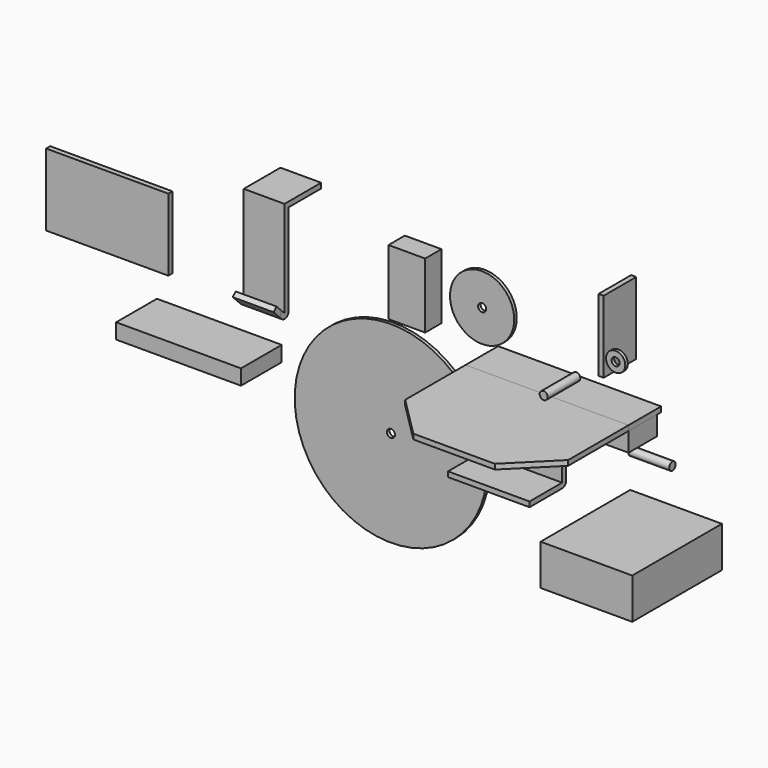
from build123d import *

# Parameters (mm, degrees)
F0_W      = 22.225
F0_H      = 11.938
F1_DEPTH  = 22.225
F2_DEPTH  = 22.225
F3_W      = 22.86
F3_H      = 40.64
F4_DEPTH  = 12.7
F5_W      = 57.15
F5_H      = 25.4
F6_DEPTH  = 69.85
F7_DEPTH  = 25.4
F8_DEPTH  = 72.39
F9_R      = 20
F10_DEPTH = 2
F11_R     = 6
F12_DEPTH = 2
F14_DEPTH = 25.4
F15_W     = 50.8
F15_H     = 25.4
F16_DEPTH = 3.175
F17_W     = 50.8
F17_H     = 3.175
F20_DEPTH = 50.8
F22_DEPTH = 50.8
F23_R     = 60
F24_DEPTH = 2
F25_R     = 2.5
F26_DEPTH = 25.4
F27_R     = 2.5
F28_DEPTH = 25.4
F29_R     = 2.5
F30_DEPTH = 25.4
F31_R     = 2.5
F32_DEPTH = 25.4
F33_W     = 77.7875
F33_H     = 9.525
F34_DEPTH = 31.75
F35_W     = 25.4
F35_H     = 60
F36_DEPTH = 3.175
F37_W     = 25.4
F37_H     = 3.175
F40_DEPTH = 25.4
F41_DEPTH = 25.4
F42_W     = 25.4
F42_H     = 3.175
F43_DEPTH = 28.575
F44_W     = 76.2
F44_H     = 45
F45_DEPTH = 3.175
F46_W     = 25.4
F46_H     = 45
F47_DEPTH = 3.175
F48_R     = 2.5019
F49_DEPTH = 25.4


with BuildPart() as f1:
    # F0 (on Front) → F1 (new body)
    with BuildSketch(Plane.XZ):
        with Locations((-53.469562, -2.8866)):
            Rectangle(F0_W, F0_H)
    extrude(amount=-F1_DEPTH)


with BuildPart() as f2:
    # F0 (on Front) → F2 (new body)
    with BuildSketch(Plane.XZ):
        with Locations((25.905438, -2.8866)):
            Rectangle(F0_W, F0_H)
    extrude(amount=-F2_DEPTH)


with BuildPart() as f4:
    # F3 (on Front) → F4 (new body)
    with BuildSketch(Plane.XZ):
        with Locations((-101.150385, 36.158367)):
            Rectangle(F3_W, F3_H)
    extrude(amount=-F4_DEPTH)


with BuildPart() as f6:
    # F5 (on Front) → F6 (new body)
    with BuildSketch(Plane.XZ):
        with Locations((66.642915, -41.606452)):
            Rectangle(F5_W, F5_H)
    extrude(amount=F6_DEPTH)


with BuildPart() as f7:
    # F0 (on Front) → F7 (new body)
    with BuildSketch(Plane.XZ):
        Polygon((-64.582062, 6.2574), (-64.582062, 3.0824), (-42.357062, 3.0824), (14.792938, 3.0824), (37.017938, 3.0824), (37.017938, 6.2574), align=None)
    extrude(amount=-F7_DEPTH)


with BuildPart() as f8:
    # F0 (on Front) → F8 (new body)
    with BuildSketch(Plane.XZ):
        Polygon((-64.582062, 6.2574), (-64.582062, 3.0824), (-42.357062, 3.0824), (14.792938, 3.0824), (37.017938, 3.0824), (37.017938, 6.2574), align=None)
    extrude(amount=F8_DEPTH)

    # F13 (on face) → F14 (cut)
    with BuildSketch(Plane.XY.offset(6.2574)):
        Polygon((-64.582062, -72.39), (-39.182062, -72.39), (-64.582062, -46.99), align=None)
        Polygon((37.017938, -72.39), (37.017938, -46.99), (11.617938, -72.39), align=None)
    extrude(amount=-F14_DEPTH, mode=Mode.SUBTRACT)


with BuildPart() as f10:
    # F9 (on Front) → F10 (new body)
    with BuildSketch(Plane.XZ):
        with Locations((-52.642774, 42.422887)):
            Circle(F9_R)
    extrude(amount=F10_DEPTH)

    # F27 (on face) → F28 (cut)
    with BuildSketch(Plane.XZ.offset(2)):
        with Locations((-52.642774, 42.422887)):
            Circle(F27_R)
    extrude(amount=-F28_DEPTH, mode=Mode.SUBTRACT)


with BuildPart() as f12:
    # F11 (on Front) → F12 (new body)
    with BuildSketch(Plane.XZ):
        with Locations((30.587189, 39.813034)):
            Circle(F11_R)
    extrude(amount=F12_DEPTH)

    # F29 (on face) → F30 (cut)
    with BuildSketch(Plane.XZ.offset(2)):
        with Locations((30.587189, 39.813034)):
            Circle(F29_R)
    extrude(amount=-F30_DEPTH, mode=Mode.SUBTRACT)


with BuildPart() as f16:
    # F15 (on face) → F16 (new body)
    with BuildSketch(Plane.XZ.offset(2)):
        with Locations((-25.614209, -22.562116)):
            Rectangle(F15_W, F15_H)
    extrude(amount=F16_DEPTH)

    # F17 (on face) → F18 (revolve)
    with BuildSketch(Plane.XZ.offset(5.175)):
        with Locations((-25.614209, -33.674616)):
            Rectangle(F17_W, F17_H)
    revolve(axis=Axis((-25.614209, -5.175, -35.262116), (1, 0, 0)))

    # F19 (on face) → F20 (cut)
    with BuildSketch(Plane(origin=(-51.014209, 0, 0), x_dir=(0, -1, 0), z_dir=(-1, 0, 0))):
        with BuildLine():
            ThreePointArc((8.35, -35.262116), (7.420064, -33.017052), (5.175, -32.087116))
            Line((5.175, -32.087116), (5.175, -35.262116))
            Line((5.175, -35.262116), (8.35, -35.262116))
        make_face()
    extrude(amount=-F20_DEPTH, mode=Mode.SUBTRACT)

    # F21 (on face) → F22 (join)
    with BuildSketch(Plane(origin=(-51.014209, 0, 0), x_dir=(0, -1, 0), z_dir=(-1, 0, 0))):
        with BuildLine():
            ThreePointArc((8.35, -35.262116), (7.420064, -37.507181), (5.175, -38.437116))
            Line((5.175, -38.437116), (30.575, -38.437116))
            Line((30.575, -38.437116), (30.575, -35.262116))
            Line((30.575, -35.262116), (8.35, -35.262116))
        make_face()
    extrude(amount=-F22_DEPTH)


with BuildPart() as f24:
    # F23 (on Front) → F24 (new body)
    with BuildSketch(Plane.XZ):
        with Locations((-109.444685, -45.056824)):
            Circle(F23_R)
    extrude(amount=F24_DEPTH)

    # F25 (on face) → F26 (cut)
    with BuildSketch(Plane.XZ.offset(2)):
        with Locations((-109.444685, -45.056824)):
            Circle(F25_R)
    extrude(amount=-F26_DEPTH, mode=Mode.SUBTRACT)


with BuildPart() as f32:
    # F31 (on Front) → F32 (new body)
    with BuildSketch(Plane.XZ):
        with Locations((4.458145, 22.271456)):
            Circle(F31_R)
    extrude(amount=F32_DEPTH)


with BuildPart() as f34:
    # F33 (on Front) → F34 (new body)
    with BuildSketch(Plane.XZ):
        with Locations((-218.014501, -24.70176)):
            Rectangle(F33_W, F33_H)
    extrude(amount=F34_DEPTH)


with BuildPart() as f36:
    # F35 (on Front) → F36 (new body)
    with BuildSketch(Plane.XZ):
        with Locations((-187.555594, 30.06612)):
            Rectangle(F35_W, F35_H)
    extrude(amount=F36_DEPTH)

    # F37 (on face) → F38 (revolve)
    with BuildSketch(Plane.XZ.offset(3.175)):
        with Locations((-187.555594, 1.65362)):
            Rectangle(F37_W, F37_H)
    revolve(axis=Axis((-187.555594, -3.175, 0.06612), (1, 0, 0)))

    # F39 (on face) → F41 (cut)
    with BuildSketch(Plane(origin=(-200.255594, 0, 0), x_dir=(0, -1, 0), z_dir=(-1, 0, 0))):
        with BuildLine():
            ThreePointArc((5.420064, 2.311184), (4.39002, 2.999437), (3.175, 3.24112))
            Line((3.175, 3.24112), (3.175, 0.06612))
            Line((3.175, 0.06612), (5.420064, 2.311184))
        make_face()
    extrude(amount=-F41_DEPTH, mode=Mode.SUBTRACT)

    # F42 (on face) → F43 (join)
    with BuildSketch(Plane.XZ.offset(3.175)):
        with Locations((-187.555594, 58.47862)):
            Rectangle(F42_W, F42_H)
    extrude(amount=-F43_DEPTH)


with BuildPart() as f40:
    # F39 (on face) → F40 (new body)
    with BuildSketch(Plane(origin=(-200.255594, 0, 0), x_dir=(0, -1, 0), z_dir=(-1, 0, 0))):
        with BuildLine():
            Line((9.456451, 6.347571), (5.420064, 2.311184))
            ThreePointArc((5.420064, 2.311184), (6.35, 0.06612), (5.420064, -2.178944))
            Line((5.420064, -2.178944), (11.701515, 4.102507))
            Line((11.701515, 4.102507), (9.456451, 6.347571))
        make_face()
    extrude(amount=-F40_DEPTH)


with BuildPart() as f45:
    # F44 (on Front) → F45 (new body)
    with BuildSketch(Plane.XZ):
        with Locations((-285.338883, 19.636434)):
            Rectangle(F44_W, F44_H)
    extrude(amount=F45_DEPTH)


with BuildPart() as f47:
    # F46 (on Right) → F47 (new body)
    with BuildSketch(Plane.YZ):
        with Locations((35.602256, 34.450616)):
            Rectangle(F46_W, F46_H)
    extrude(amount=F47_DEPTH)


with BuildPart() as f49:
    # F48 (on Right) → F49 (new body)
    with BuildSketch(Plane.YZ):
        with Locations((48.716638, -39.761063)):
            Circle(F48_R)
    extrude(amount=F49_DEPTH)


solid = Compound([f1.part, f2.part, f4.part, f6.part, f7.part, f8.part, f10.part, f12.part, f16.part, f24.part, f32.part, f34.part, f36.part, f40.part, f45.part, f47.part, f49.part])
